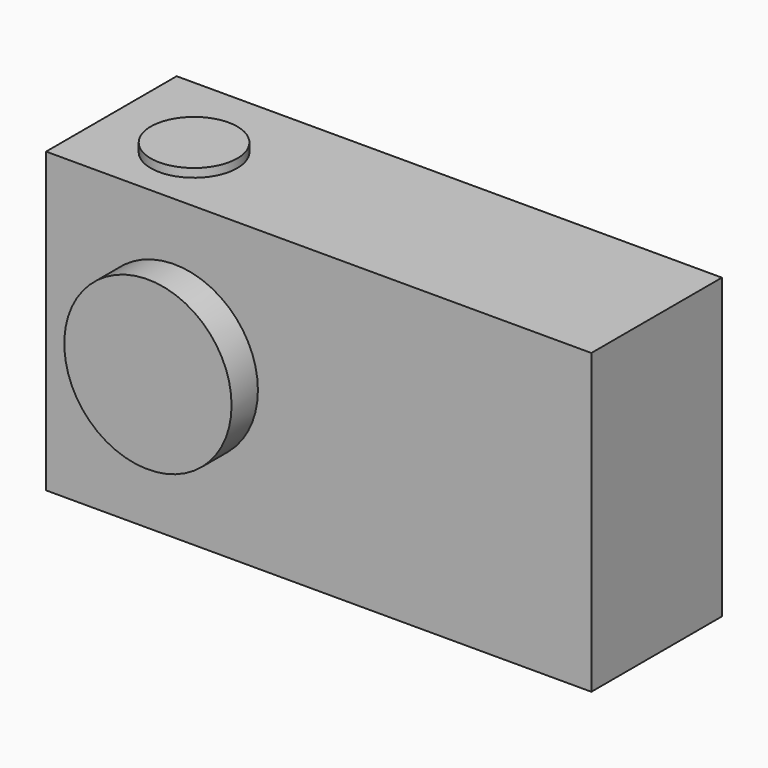
from build123d import *

# Parameters (mm, degrees)
F0_W     = 96.733004
F0_H     = 52.915374
F1_DEPTH = 28.956
F2_R     = 14.838467
F3_DEPTH = 5.842
F4_R     = 7.671079
F5_DEPTH = 1.524


with BuildPart() as f1:
    # F0 (on Front) → F1 (new body)
    with BuildSketch(Plane.XZ):
        with Locations((-48.366502, 18.087014)):
            Rectangle(F0_W, F0_H)
    extrude(amount=F1_DEPTH)

    # F2 (on face) → F3 (join)
    with BuildSketch(Plane.XZ.offset(28.956)):
        with Locations((-73.99255, 19.509472)):
            Circle(F2_R)
    extrude(amount=F3_DEPTH)

    # F4 (on face) → F5 (join)
    with BuildSketch(Plane.XY.offset(44.544701)):
        with Locations((-80.607049, -16.305355)):
            Circle(F4_R)
    extrude(amount=F5_DEPTH)


solid = f1.part
